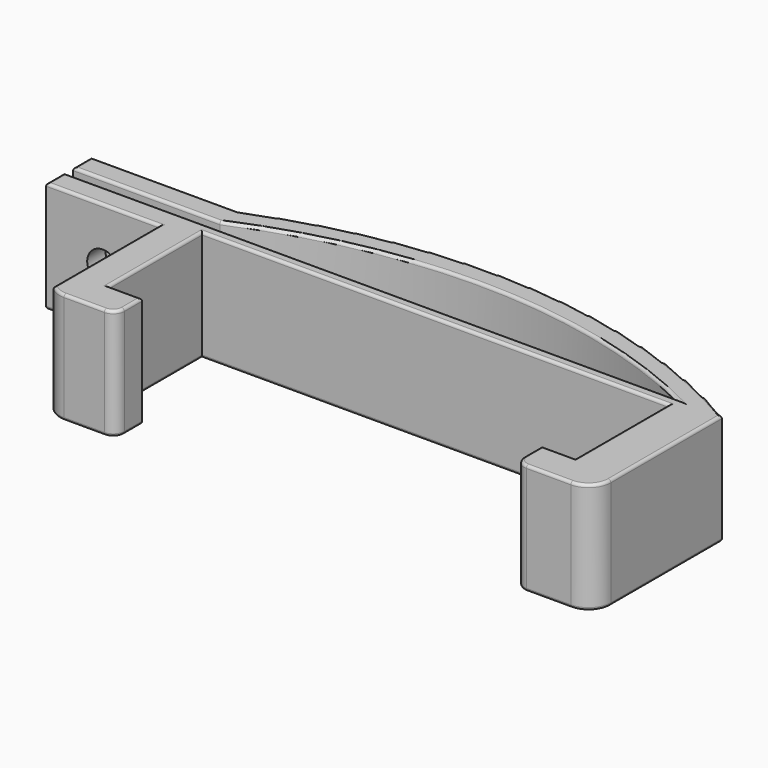
from build123d import *

# Parameters (mm, degrees)
PAD_DEPTH       = 10
SKETCH001_W     = 9.110509
SKETCH001_H     = 17.177114
POCKET_DEPTH    = 3.001
SKETCH002_R     = 1.4
POCKET001_DEPTH = 2.048058
FILLET_R        = 0.25


with BuildPart() as part:
    # Sketch → Pad (new body)
    with BuildSketch(Plane.XY):
        with BuildLine():
            Line((25, 0), (25, -12.5))
            ThreePointArc((23, -14.5), (24.414214, -13.914214), (25, -12.5))
            Line((23, -14.5), (19, -14.5))
            ThreePointArc((18, -13.5), (18.292893, -14.207107), (19, -14.5))
            Line((18, -13.5), (18, -11.5))
            Line((18, -11.5), (21, -11.5))
            Line((21, -11.5), (21, -1))
            Line((21, -1), (-21, -1))
            Line((-21, -1), (-21, -11.5))
            Line((-21, -11.5), (-18, -11.5))
            Line((-18, -11.5), (-18, -13.5))
            ThreePointArc((-19, -14.5), (-18.292893, -14.207107), (-18, -13.5))
            Line((-19, -14.5), (-22.634118, -14.5))
            ThreePointArc((-24, -13.960947), (-23.36832, -14.360362), (-22.634118, -14.5))
            Line((-24, -13.960947), (-24, -2.048058))
            Line((-24, -2.048058), (-34.206213, -2.048058))
            Line((-34.206213, -2.048058), (-34.206213, 0))
            Line((-34.206213, 0), (-21, 0))
            Line((-21, 0), (21, 0))
            ThreePointArc((21, 0), (0.10979, 5.111176), (-21, 1))
            Line((-21, 1), (-34.206213, 1))
            Line((-34.206213, 1), (-34.206213, 3.048058))
            Line((-34.206213, 3.048058), (-21, 3.048058))
            ThreePointArc((25, 0), (2.356054, 6.897451), (-21, 3.048058))
        make_face()
    extrude(amount=PAD_DEPTH)

    # Sketch001 (on Face16 of Pad) → Pocket (cut, through all)
    with BuildSketch(Plane(origin=(0, -11.5, 0), x_dir=(-1, 0, 0), z_dir=(0, 1, 0))):
        with Locations((-4.555255, 16.023105)):
            Rectangle(SKETCH001_W, SKETCH001_H)
    extrude(amount=-POCKET_DEPTH, mode=Mode.SUBTRACT)

    # Sketch002 (on Face2 of Pad) → Pocket001 (cut)
    with BuildSketch(Plane.XZ.offset(2.048058)):
        with Locations((-29.103106, 5)):
            Circle(SKETCH002_R)
    extrude(amount=-POCKET001_DEPTH, mode=Mode.SUBTRACT)

    # Fillet
    fillet_edges = [part.edges().sort_by_distance(p)[0] for p in [
        (-24, -8.004502, 0),
        (-29.103106, -2.048058, 0),
        (-34.206213, -1.024029, 0),
        (-27.603106, 0, 0),
        (0, 0, 0),
        (0.10979, 5.111176, 0),
        (-27.603106, 1, 0),
        (-34.206213, 2.024029, 0),
        (-27.603106, 3.048058, 0),
        (2.356054, 6.897451, 0),
        (25, -6.25, 0),
        (24.414214, -13.914214, 0),
        (21, -14.5, 0),
        (18.292893, -14.207107, 0),
        (18, -12.5, 0),
        (19.5, -11.5, 0),
        (21, -6.25, 0),
        (0, -1, 0),
        (-21, -6.25, 0),
        (-19.5, -11.5, 0),
        (-18, -12.5, 0),
        (-18.292893, -14.207107, 0),
        (-20.817059, -14.5, 0),
        (-23.36832, -14.360362, 0),
        (-24, -8.004502, 10),
        (-29.103106, -2.048058, 10),
        (-34.206213, -1.024029, 10),
        (-27.603106, 0, 10),
        (0, 0, 10),
        (0.10979, 5.111176, 10),
        (-27.603106, 1, 10),
        (-34.206213, 2.024029, 10),
        (-27.603106, 3.048058, 10),
        (2.356054, 6.897451, 10),
        (25, -6.25, 10),
        (24.414214, -13.914214, 10),
        (21, -14.5, 10),
        (18.292893, -14.207107, 10),
        (18, -12.5, 10),
        (19.5, -11.5, 10),
        (21, -6.25, 10),
        (0, -1, 10),
        (-21, -6.25, 10),
        (-19.5, -11.5, 10),
        (-18, -12.5, 10),
        (-18.292893, -14.207107, 10),
        (-20.817059, -14.5, 10),
        (-23.36832, -14.360362, 10),
    ]]
    fillet(fillet_edges, radius=FILLET_R)


solid = part.part
